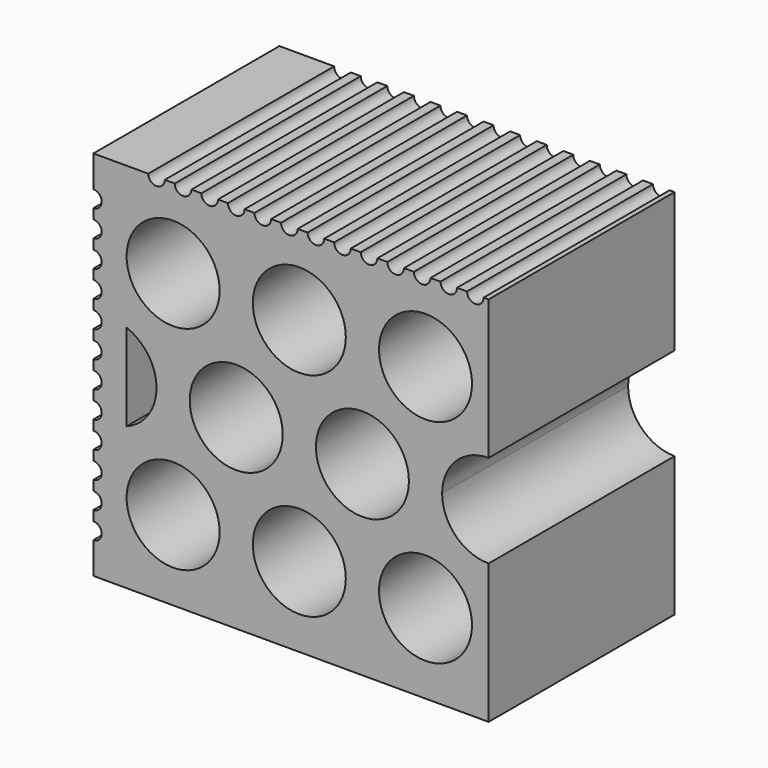
from build123d import *

# Parameters (mm, degrees)
F0_R     = 14
F1_DEPTH = 70


with BuildPart() as f1:
    # F0 (on Front) → F1 (new body)
    with BuildSketch(Plane.XZ):
        with BuildLine():
            Line((-119, -46.5), (-119, -56))
            Line((-119, -56), (0, -56))
            Line((0, -56), (0, -14))
            ThreePointArc((0, -14), (-9.899495, -9.899495), (-14, 0))
            ThreePointArc((-14, 0), (-9.899495, 9.899495), (0, 14))
            Line((0, 14), (0, 56))
            Line((0, 56), (-1.5, 56))
            ThreePointArc((-1.5, 56), (-4, 53.5), (-6.5, 56))
            Line((-6.5, 56), (-9.5, 56))
            ThreePointArc((-9.5, 56), (-12, 53.5), (-14.5, 56))
            Line((-14.5, 56), (-17.5, 56))
            ThreePointArc((-17.5, 56), (-20, 53.5), (-22.5, 56))
            Line((-22.5, 56), (-25.5, 56))
            ThreePointArc((-25.5, 56), (-28, 53.5), (-30.5, 56))
            Line((-30.5, 56), (-33.5, 56))
            ThreePointArc((-33.5, 56), (-36, 53.5), (-38.5, 56))
            Line((-38.5, 56), (-41.5, 56))
            ThreePointArc((-41.5, 56), (-44, 53.5), (-46.5, 56))
            Line((-46.5, 56), (-49.5, 56))
            ThreePointArc((-49.5, 56), (-52, 53.5), (-54.5, 56))
            Line((-54.5, 56), (-57.5, 56))
            ThreePointArc((-57.5, 56), (-60, 53.5), (-62.5, 56))
            Line((-62.5, 56), (-65.5, 56))
            ThreePointArc((-65.5, 56), (-68, 53.5), (-70.5, 56))
            Line((-70.5, 56), (-73.5, 56))
            ThreePointArc((-73.5, 56), (-76, 53.5), (-78.5, 56))
            Line((-78.5, 56), (-81.5, 56))
            ThreePointArc((-81.5, 56), (-84, 53.5), (-86.5, 56))
            Line((-86.5, 56), (-89.5, 56))
            ThreePointArc((-89.5, 56), (-92, 53.5), (-94.5, 56))
            Line((-94.5, 56), (-97.5, 56))
            ThreePointArc((-97.5, 56), (-100, 53.5), (-102.5, 56))
            Line((-102.5, 56), (-119, 56))
            Line((-119, 56), (-119, 46.5))
            ThreePointArc((-119, 46.5), (-116.5, 44), (-119, 41.5))
            Line((-119, 41.5), (-119, 38.5))
            ThreePointArc((-119, 38.5), (-116.5, 36), (-119, 33.5))
            Line((-119, 33.5), (-119, 30.5))
            ThreePointArc((-119, 30.5), (-116.5, 28), (-119, 25.5))
            Line((-119, 25.5), (-119, 22.5))
            ThreePointArc((-119, 22.5), (-116.5, 20), (-119, 17.5))
            Line((-119, 17.5), (-119, 14.5))
            ThreePointArc((-119, 14.5), (-116.5, 12), (-119, 9.5))
            Line((-119, 9.5), (-119, 6.5))
            ThreePointArc((-119, 6.5), (-116.5, 4), (-119, 1.5))
            Line((-119, 1.5), (-119, -1.5))
            ThreePointArc((-119, -1.5), (-116.5, -4), (-119, -6.5))
            Line((-119, -6.5), (-119, -9.5))
            ThreePointArc((-119, -9.5), (-116.5, -12), (-119, -14.5))
            Line((-119, -14.5), (-119, -17.5))
            ThreePointArc((-119, -17.5), (-116.5, -20), (-119, -22.5))
            Line((-119, -22.5), (-119, -25.5))
            ThreePointArc((-119, -25.5), (-116.5, -28), (-119, -30.5))
            Line((-119, -30.5), (-119, -33.5))
            ThreePointArc((-119, -33.5), (-116.5, -36), (-119, -38.5))
            Line((-119, -38.5), (-119, -41.5))
            ThreePointArc((-119, -41.5), (-116.5, -44), (-119, -46.5))
        make_face()
        with Locations((-95, -32)):
            Circle(F0_R, mode=Mode.SUBTRACT)
        with Locations((-57, -32)):
            Circle(F0_R, mode=Mode.SUBTRACT)
        with Locations((-19, -32)):
            Circle(F0_R, mode=Mode.SUBTRACT)
        with BuildLine():
            Line((-109, -13.076697), (-109, 13.076697))
            ThreePointArc((-109, 13.076697), (-100, 0), (-109, -13.076697))
        make_face(mode=Mode.SUBTRACT)
        with Locations((-76, 0)):
            Circle(F0_R, mode=Mode.SUBTRACT)
        with Locations((-95, 32)):
            Circle(F0_R, mode=Mode.SUBTRACT)
        with Locations((-38, 0)):
            Circle(F0_R, mode=Mode.SUBTRACT)
        with Locations((-57, 32)):
            Circle(F0_R, mode=Mode.SUBTRACT)
        with Locations((-19, 32)):
            Circle(F0_R, mode=Mode.SUBTRACT)
    extrude(amount=-F1_DEPTH)


solid = f1.part
